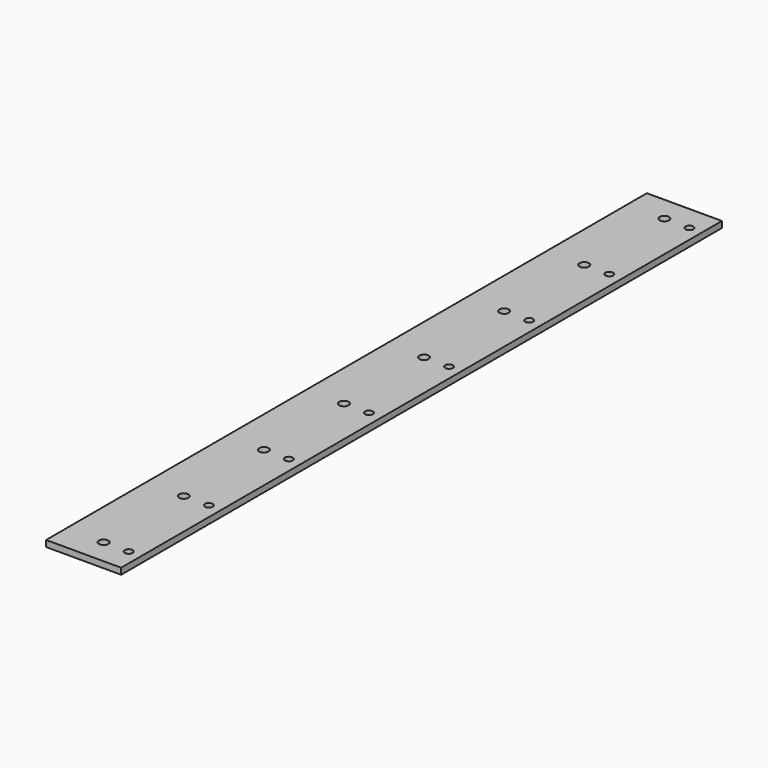
from build123d import *

# Parameters (mm, degrees)
F0_W     = 38.1
F0_H     = 3.175
F1_DEPTH = 381
F2_R     = 2.3876
F2_R_2   = 1.9812
F3_DEPTH = 25.4


with BuildPart() as f1:
    # F0 (on Front) → F1 (new body)
    with BuildSketch(Plane.XZ):
        with Locations((19.05, 1.5875)):
            Rectangle(F0_W, F0_H)
    extrude(amount=F1_DEPTH)

    # F2 (on face) → F3 (cut)
    with BuildSketch(Plane.XY.offset(3.175)):
        with Locations((19.05, -368.3)):
            Circle(F2_R)
        with Locations((31.75, -368.3)):
            Circle(F2_R_2)
        with Locations((19.05, -317.5)):
            Circle(F2_R)
        with Locations((31.75, -317.5)):
            Circle(F2_R_2)
        with Locations((19.05, -266.7)):
            Circle(F2_R)
        with Locations((31.75, -266.7)):
            Circle(F2_R_2)
        with Locations((19.05, -215.9)):
            Circle(F2_R)
        with Locations((31.75, -215.9)):
            Circle(F2_R_2)
        with Locations((31.75, -165.1)):
            Circle(F2_R_2)
        with Locations((19.05, -165.1)):
            Circle(F2_R)
        with Locations((19.05, -114.3)):
            Circle(F2_R)
        with Locations((31.75, -114.3)):
            Circle(F2_R_2)
        with Locations((19.05, -63.5)):
            Circle(F2_R)
        with Locations((31.75, -63.5)):
            Circle(F2_R_2)
        with Locations((19.05, -12.7)):
            Circle(F2_R)
        with Locations((31.75, -12.7)):
            Circle(F2_R_2)
    extrude(amount=-F3_DEPTH, mode=Mode.SUBTRACT)


solid = f1.part
